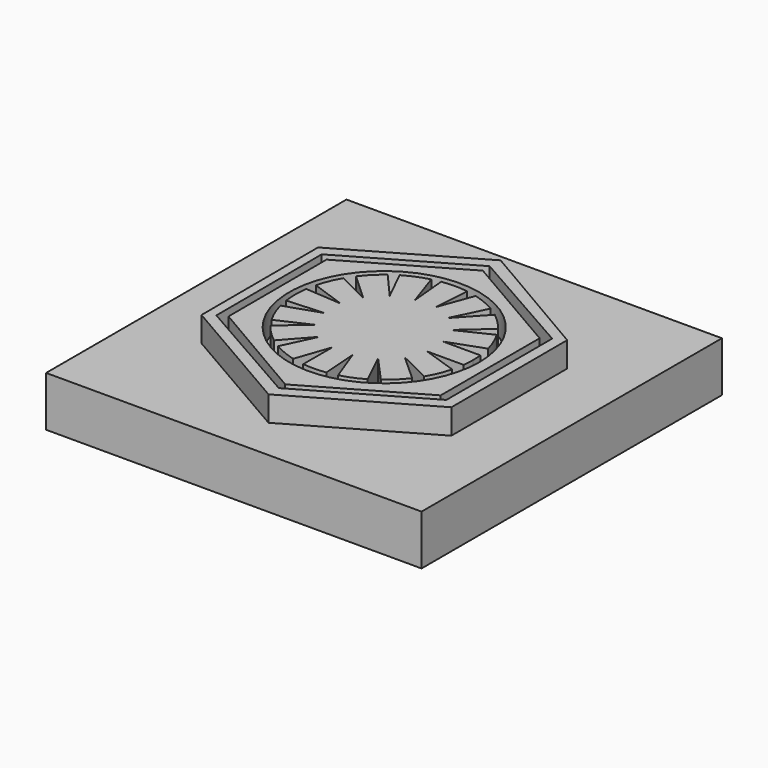
from build123d import *

# Parameters (mm, degrees)
F0_W     = 38.1
F0_H     = 38.1
F1_DEPTH = 5.08
F2_R     = 9.636419
F3_DEPTH = 2.54


with BuildPart() as f1:
    # F0 (on Top) → F1 (new body)
    with BuildSketch(Plane.XY):
        with Locations((-4.336205, -4.503883)):
            Rectangle(F0_W, F0_H)
    extrude(amount=F1_DEPTH)

    # F2 (on face) → F3 (join)
    with BuildSketch(Plane.XY.offset(5.08)):
        Polygon((-16.963584, 2.906272), (-16.933717, -11.906166), (-4.27773, -19.227108), (8.422415, -11.905848), (8.392711, 2.825718), (-4.27773, 10.219293), align=None)
        Polygon((-4.311768, -17.878222), (-15.968911, -11.225127), (-15.995917, 2.168256), (-4.333854, 8.891092), (7.299944, 2.28216), (7.327066, -11.168777), align=None, mode=Mode.SUBTRACT)
        Polygon((-15.133053, 1.699716), (-15.107919, -10.765341), (-4.311768, -17.065212), (6.484382, -10.841549), (6.484382, 1.714627), (-4.27773, 7.95749), align=None)
        with Locations((-4.31549, -4.503883)):
            Circle(F2_R, mode=Mode.SUBTRACT)
        with BuildLine():
            ThreePointArc((4.6324, -5.61813), (4.684216, -5.062077), (4.70151, -4.503883))
            ThreePointArc((4.70151, -4.503883), (4.687865, -4.008002), (4.646969, -3.513622))
            Line((4.646969, -3.513622), (0.866868, -3.513622))
            Line((0.866868, -3.513622), (4.410669, -2.232224))
            ThreePointArc((4.410669, -2.232224), (4.017353, -1.058594), (3.467016, 0.050114))
            Line((3.467016, 0.050114), (0.085442, -1.584476))
            Line((0.085442, -1.584476), (2.899253, 0.904792))
            ThreePointArc((2.899253, 0.904792), (2.101629, 1.830694), (1.186131, 2.640237))
            Line((1.186131, 2.640237), (-1.379733, -0.143722))
            Line((-1.379733, -0.143722), (0.269269, 3.26054))
            ThreePointArc((0.269269, 3.26054), (-0.836167, 3.814806), (-2.007042, 4.212616))
            Line((-2.007042, 4.212616), (-3.264274, 0.789716))
            Line((-3.264274, 0.789716), (-3.033893, 4.421574))
            ThreePointArc((-3.033893, 4.421574), (-4.351626, 4.513044), (-5.668584, 4.411016))
            Line((-5.668584, 4.411016), (-5.317712, 0.640375))
            Line((-5.317712, 0.640375), (-6.531781, 4.236502))
            ThreePointArc((-6.531781, 4.236502), (-7.775625, 3.822806), (-8.946344, 3.233137))
            Line((-8.946344, 3.233137), (-7.333815, -0.031659))
            Line((-7.333815, -0.031659), (-9.731831, 2.705106))
            ThreePointArc((-9.731831, 2.705106), (-10.684924, 1.878639), (-11.513346, 0.927245))
            Line((-11.513346, 0.927245), (-8.723363, -1.636518))
            Line((-8.723363, -1.636518), (-12.102514, 0.042383))
            ThreePointArc((-12.102514, 0.042383), (-12.655716, -1.076506), (-13.049107, -2.261068))
            Line((-13.049107, -2.261068), (-9.542109, -3.492343))
            Line((-9.542109, -3.492343), (-13.242584, -3.233735))
            ThreePointArc((-13.242584, -3.233735), (-13.33249, -4.504989), (-13.242272, -5.776221))
            Line((-13.242272, -5.776221), (-9.542109, -5.566502))
            Line((-9.542109, -5.566502), (-13.049957, -6.743385))
            ThreePointArc((-13.049957, -6.743385), (-12.648551, -7.948644), (-12.08175, -9.08553))
            Line((-12.08175, -9.08553), (-8.817994, -7.592915))
            Line((-8.817994, -7.592915), (-11.537476, -9.902884))
            ThreePointArc((-11.537476, -9.902884), (-10.695368, -10.875967), (-9.723315, -11.719264))
            Line((-9.723315, -11.719264), (-7.304202, -9.005236))
            Line((-7.304202, -9.005236), (-8.845366, -12.300454))
            ThreePointArc((-8.845366, -12.300454), (-7.737035, -12.846504), (-6.564463, -13.235917))
            Line((-6.564463, -13.235917), (-5.366502, -9.769401))
            Line((-5.366502, -9.769401), (-5.366502, -13.459421))
            ThreePointArc((-5.366502, -13.459421), (-4.208192, -13.520245), (-3.051657, -13.431874))
            Line((-3.051657, -13.431874), (-3.292344, -9.796692))
            Line((-3.292344, -9.796692), (-2.018305, -13.223358))
            ThreePointArc((-2.018305, -13.223358), (-0.859311, -12.832215), (0.23608, -12.287809))
            Line((0.23608, -12.287809), (-1.38217, -8.949596))
            Line((-1.38217, -8.949596), (1.108565, -11.707071))
            ThreePointArc((1.108565, -11.707071), (2.054256, -10.886095), (2.87708, -9.94201))
            Line((2.87708, -9.94201), (0.178137, -7.5158))
            Line((0.178137, -7.5158), (3.43137, -9.118257))
            ThreePointArc((3.43137, -9.118257), (4.000591, -7.989439), (4.406341, -6.792104))
            Line((4.406341, -6.792104), (0.937204, -5.61813))
            Line((0.937204, -5.61813), (4.6324, -5.61813))
        make_face()
    extrude(amount=F3_DEPTH)


solid = f1.part
